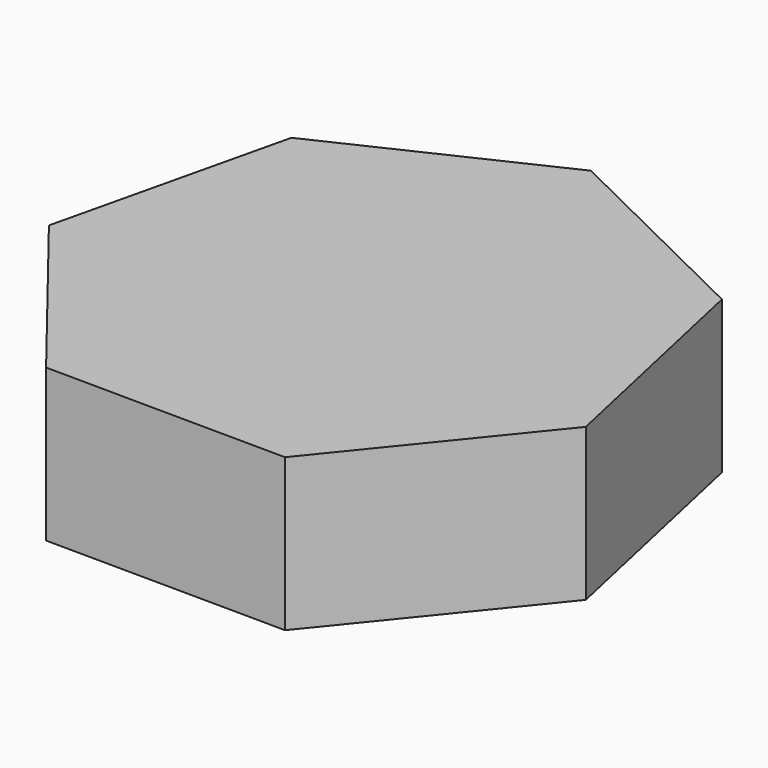
from build123d import *

# Parameters (mm, degrees)
F1_DEPTH = 25.4


with BuildPart() as f1:
    # F0 (on Top) → F1 (new body)
    with BuildSketch(Plane.XY):
        Polygon((19.7249316704, -41.7757134065), (44.9598616826, -10.6251587048), (36.3390988338, 28.5263572153), (0.3542533805, 46.1969443207), (-35.8973520937, 29.0802901066), (-45.1175192688, -9.9344156875), (-20.3632742049, -41.4683038438), align=None)
    extrude(amount=F1_DEPTH)

    # F1_face (on face) → F2 section 0
    with BuildSketch(Plane.XY.offset(25.4)):
        Polygon((19.7249316704, -41.7757134065), (44.9598616826, -10.6251587048), (36.3390988338, 28.5263572153), (0.3542533805, 46.1969443207), (-35.8973520937, 29.0802901066), (-45.1175192688, -9.9344156875), (-20.3632742049, -41.4683038438), align=None)
    # F1_face1 (on face) → F2 section 1
    with BuildSketch(Plane(origin=(0, 0, 0), x_dir=(1, 0, 0), z_dir=(0, 0, -1))):
        Polygon((44.9598616826, 10.6251587048), (19.7249316704, 41.7757134065), (-20.3632742049, 41.4683038438), (-45.1175192688, 9.9344156875), (-35.8973520937, -29.0802901066), (0.3542533805, -46.1969443207), (36.3390988338, -28.5263572153), align=None)
    loft()


solid = f1.part
